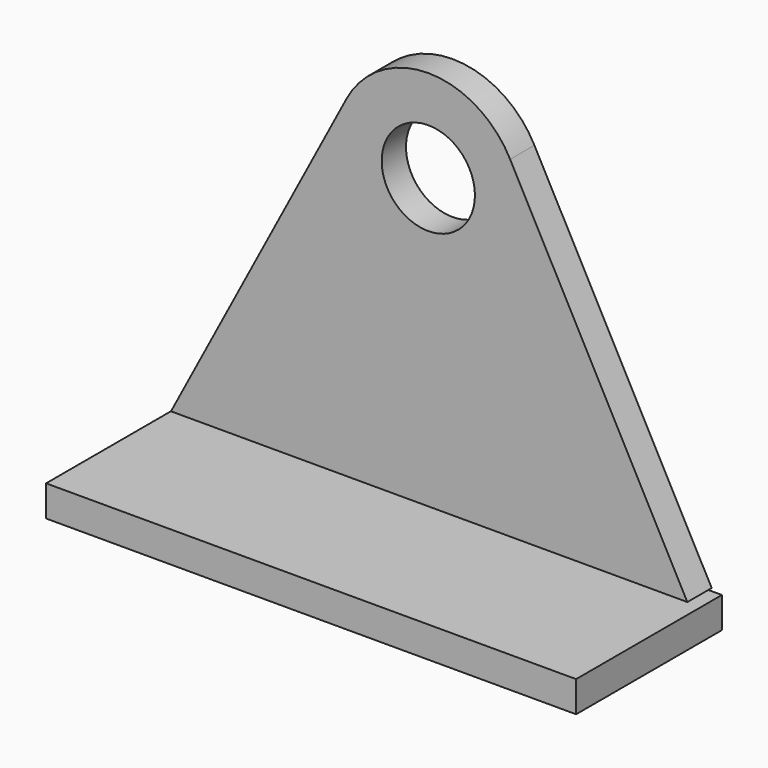
from build123d import *

# Parameters (mm, degrees)
F0_R     = 7.673828
F1_DEPTH = 5
F2_W     = 87.248202
F2_H     = 5.098917
F3_DEPTH = 30


with BuildPart() as f1:
    # F0 (on Front) → F1 (new body)
    with BuildSketch(Plane.XZ):
        with BuildLine():
            Line((42.644559, -47.559523), (13.469989, 7.116254))
            ThreePointArc((13.469989, 7.116254), (0, 15.234227), (-13.469989, 7.116254))
            Line((-13.469989, 7.116254), (-42.355441, -47.559523))
            Line((-42.355441, -47.559523), (42.644559, -47.559523))
        make_face()
        Circle(F0_R, mode=Mode.SUBTRACT)
    extrude(amount=F1_DEPTH)


with BuildPart() as f3:
    # F2 (on Front) → F3 (new body)
    with BuildSketch(Plane.XZ):
        with Locations((0.708183, -50.5643)):
            Rectangle(F2_W, F2_H)
    extrude(amount=F3_DEPTH)


solid = Compound([f1.part, f3.part])
